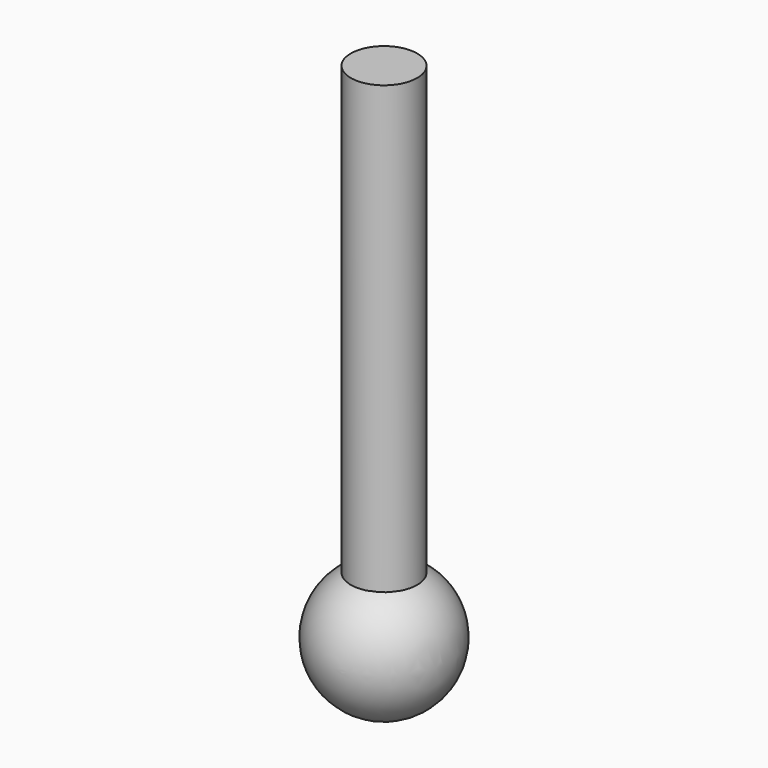
from build123d import *

# Parameters (mm, degrees)
F0_R = 1.6764
F2_R = 1.6764


with BuildPart() as f4:
    # F0 (on Top) → F4 section 0
    with BuildSketch(Plane.XY):
        Circle(F0_R)
    # F2 (on offset) → F4 section 1
    with BuildSketch(Plane.XY.offset(-22.86)):
        Circle(F2_R)
    loft()


with BuildPart() as f6:
    # F5 (on offset) → F6 (revolve)
    with BuildSketch(Plane.XY.offset(-25.4)):
        with BuildLine():
            Line((0, 0), (0, -3.339746))
            ThreePointArc((0, -3.339746), (3.339746, 0), (0, 3.339746))
            Line((0, 3.339746), (0, 0))
        make_face()
    revolve(axis=Axis((0, 1.669873, -25.4), (0, 1, 0)))


solid = Compound([f4.part, f6.part])
